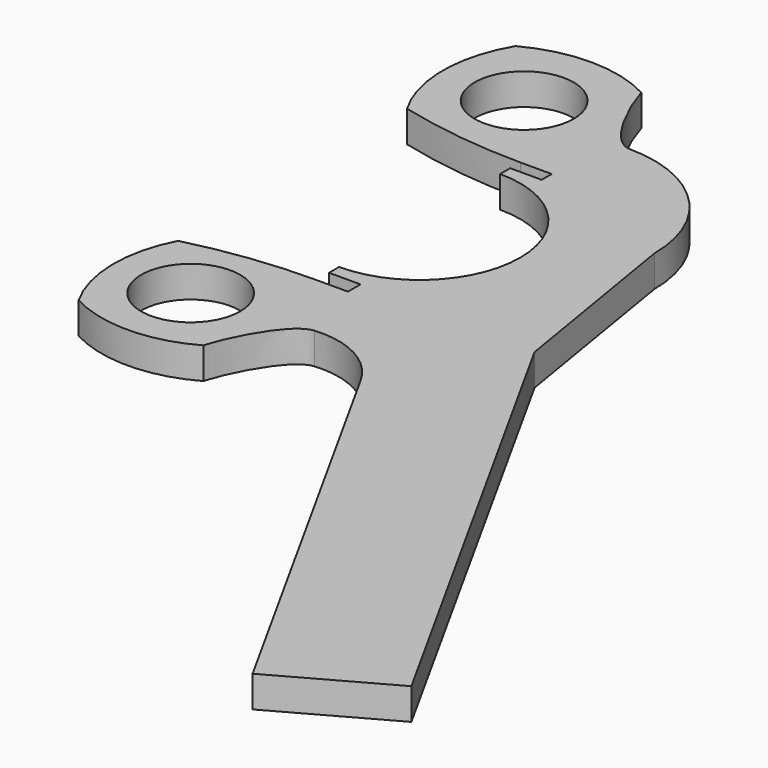
from build123d import *

# Parameters (mm, degrees)
F0_R     = 5
F1_DEPTH = 3.175


with BuildPart() as f1:
    # F0 (on Top) → F1 (new body)
    with BuildSketch(Plane.XY):
        with BuildLine():
            ThreePointArc((0, 8.255), (10.16, -1.905), (0, -12.065))
            Line((0, -12.065), (0, -13.335))
            Line((0, -13.335), (3.175, -13.335))
            Line((3.175, -13.335), (3.175, -14.9225))
            Line((3.175, -14.9225), (0, -14.9225))
            ThreePointArc((0, -14.9225), (-6.399417, -15.320913), (-12.7, -16.51))
            ThreePointArc((-12.7, -16.51), (-14.223633, -22.941638), (-12.496302, -29.321587))
            ThreePointArc((-12.496302, -29.321587), (-6.23387, -30.865057), (0, -29.21))
            add(Edge.make_bspline(
                [(0, -29.21), (0.695171, -26.730171), (3.175, -21.946708), (5.260512, -21.770512)],
                knots=[0, 0, 0, 0, 9.111474, 9.111474, 9.111474, 9.111474], degree=3))
            ThreePointArc((5.260512, -21.770512), (9.98639, -22.741288), (13.42538, -26.125026))
            Line((13.42538, -26.125026), (38.053708, -70.555707))
            Line((38.053708, -70.555707), (49.161379, -64.398625))
            Line((49.161379, -64.398625), (21.105071, -13.783706))
            Line((21.105071, -13.783706), (17.960512, 5.260512))
            ThreePointArc((17.960512, 5.260512), (14.240768, 14.240768), (5.260512, 17.960512))
            add(Edge.make_bspline(
                [(0, 26.065382), (0.695171, 23.585552), (3.175, 18.136708), (5.260512, 17.960512)],
                knots=[0, 0, 0, 0, 9.662396, 9.662396, 9.662396, 9.662396], degree=3))
            ThreePointArc((0, 26.065382), (-6.35, 27.660541), (-12.7, 26.065382))
            ThreePointArc((-12.7, 26.065382), (-14.572133, 19.223941), (-12.7, 12.3825))
            ThreePointArc((-12.7, 12.3825), (-6.399417, 11.193413), (0, 10.795))
            Line((0, 10.795), (3.175, 10.795))
            Line((3.175, 10.795), (3.175, 9.525))
            Line((3.175, 9.525), (0, 9.525))
            Line((0, 9.525), (0, 8.255))
        make_face()
        with Locations((-6.35, -22.86)):
            Circle(F0_R, mode=Mode.SUBTRACT)
        with Locations((-6.35, 19.223941)):
            Circle(F0_R, mode=Mode.SUBTRACT)
    extrude(amount=F1_DEPTH)


solid = f1.part
